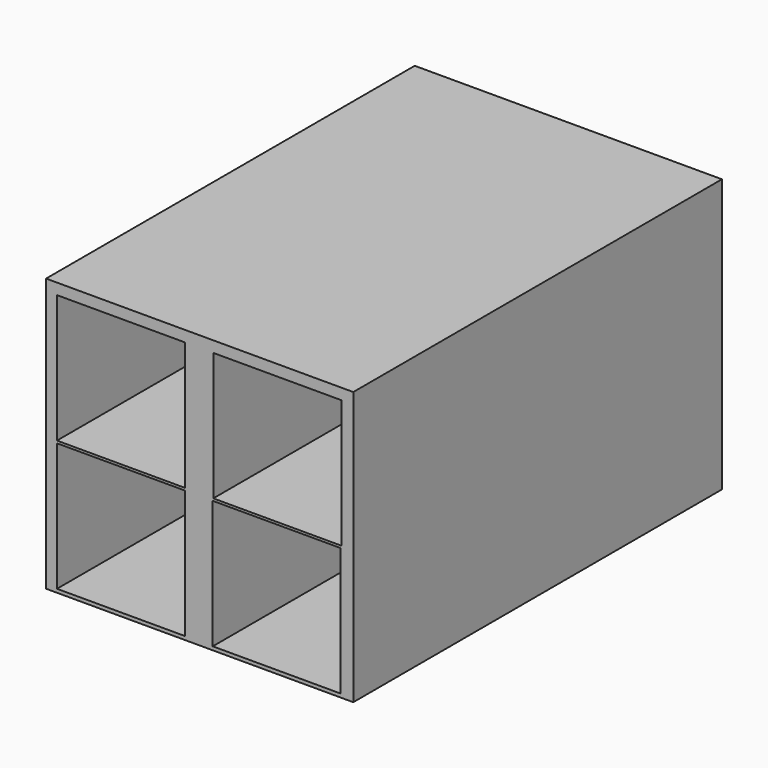
from build123d import *

# Parameters (mm, degrees)
F0_W     = 57.15
F0_H     = 50.8
F1_DEPTH = 85.725
F2_W     = 23.8125
F2_H     = 23.8252
F3_DEPTH = 85.726
F4_W     = 23.8125
F4_H     = 23.8252
F5_DEPTH = 85.726
F6_W     = 23.8125
F6_H     = 23.8252
F7_DEPTH = 85.726
F8_W     = 23.8125
F8_H     = 23.8252
F9_DEPTH = 85.726


with BuildPart() as f1:
    # F0 (on Front) → F1 (new body)
    with BuildSketch(Plane.XZ):
        Rectangle(F0_W, F0_H)
    extrude(amount=F1_DEPTH)

    # F2 (on face) → F3 (cut, through all)
    with BuildSketch(Plane.XZ.offset(85.725)):
        with Locations((-14.643011, 11.435687)):
            Rectangle(F2_W, F2_H)
    extrude(amount=-F3_DEPTH, mode=Mode.SUBTRACT)

    # F4 (on face) → F5 (cut, through all)
    with BuildSketch(Plane.XZ.offset(85.725)):
        with Locations((14.437895, 11.43)):
            Rectangle(F4_W, F4_H)
    extrude(amount=-F5_DEPTH, mode=Mode.SUBTRACT)

    # F6 (on face) → F7 (cut, through all)
    with BuildSketch(Plane.XZ.offset(85.725)):
        with Locations((-14.638421, -12.833685)):
            Rectangle(F6_W, F6_H)
    extrude(amount=-F7_DEPTH, mode=Mode.SUBTRACT)

    # F8 (on face) → F9 (cut, through all)
    with BuildSketch(Plane.XZ.offset(85.725)):
        with Locations((14.337632, -12.833685)):
            Rectangle(F8_W, F8_H)
    extrude(amount=-F9_DEPTH, mode=Mode.SUBTRACT)


solid = f1.part
